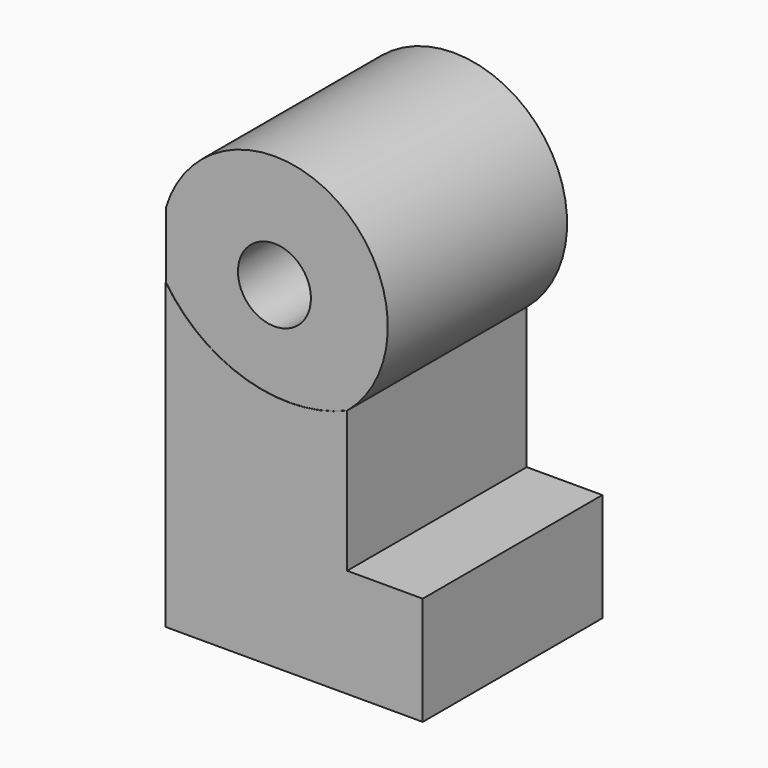
from build123d import *

# Parameters (mm, degrees)
F0_R      = 3.48
F1_DEPTH  = 6.88
F3_DEPTH  = 6.881
F5_DEPTH  = 6.89
F6_W      = 5.37
F6_H      = 4.37
F7_DEPTH  = 3.32
F8_R      = 2.4
F9_DEPTH  = 1.93
F10_R     = 2.4
F11_DEPTH = 4.99
F12_R     = 1.12
F13_DEPTH = 6.23


with BuildPart() as f1:
    # F0 (on Front) → F1 (new body)
    with BuildSketch(Plane.XZ):
        Circle(F0_R)
    extrude(amount=F1_DEPTH)

    # F2 (on face) → F3 (cut, through all)
    with BuildSketch(Plane(origin=(0, 0, 0), x_dir=(-1, 0, 0), z_dir=(0, 1, 0))):
        Polygon((4.844351, 2.141895), (3.33, 4.121852), (3.33, -5.87584), align=None)
    extrude(amount=-F3_DEPTH, mode=Mode.SUBTRACT)

    # F4 (on face) → F5 (join)
    with BuildSketch(Plane(origin=(0, 0, 0), x_dir=(-1, 0, 0), z_dir=(0, 1, 0))):
        with BuildLine():
            Line((3.33, -10.320693), (3.33, -1.010693))
            ThreePointArc((3.33, -1.010693), (0.84212, -2.838426), (-2.24, -2.663231))
            Line((-2.24, -2.663231), (-2.24, -6.990693))
            Line((-2.24, -6.990693), (-4.56, -6.990693))
            Line((-4.56, -6.990693), (-4.56, -10.320693))
            Line((-4.56, -10.320693), (3.33, -10.320693))
        make_face()
    extrude(amount=-F5_DEPTH)

    # F6 (on face) → F7 (cut)
    with BuildSketch(Plane(origin=(0, 0, -10.320693), x_dir=(1, 0, 0), z_dir=(0, 0, -1))):
        with Locations((0.615, 3.445)):
            Rectangle(F6_W, F6_H)
    extrude(amount=-F7_DEPTH, mode=Mode.SUBTRACT)

    # F8 (on face) → F9 (cut)
    with BuildSketch(Plane(origin=(-3.33, 0, 0), x_dir=(0, -1, 0), z_dir=(-1, 0, 0))):
        with Locations((3.44, 0)):
            Circle(F8_R)
    extrude(amount=-F9_DEPTH, mode=Mode.SUBTRACT)

    # F10 (on face) → F11 (cut)
    with BuildSketch(Plane(origin=(-3.33, 0, 0), x_dir=(0, -1, 0), z_dir=(-1, 0, 0))):
        with Locations((3.445, -6.270693)):
            Circle(F10_R)
    extrude(amount=-F11_DEPTH, mode=Mode.SUBTRACT)

    # F12 (on face) → F13 (cut)
    with BuildSketch(Plane.XZ.offset(6.88)):
        Circle(F12_R)
    extrude(amount=-F13_DEPTH, mode=Mode.SUBTRACT)


solid = f1.part
